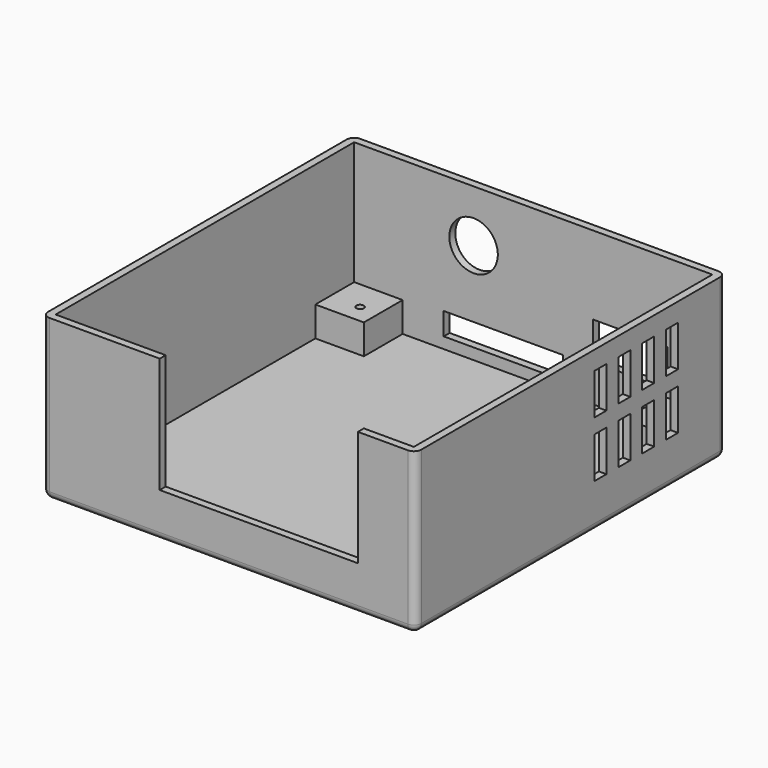
from build123d import *

# Parameters (mm, degrees)
SKETCH_W        = 50
SKETCH_H        = 52
PAD_DEPTH       = 21.5
SKETCH001_W     = 48
SKETCH001_H     = 50
POCKET_DEPTH    = 20.5
SKETCH002_W     = 6.5
SKETCH002_H     = 6.5
PAD001_DEPTH    = 4
SKETCH003_R     = 0.5
POCKET001_DEPTH = 3
SKETCH004_W     = 26.55
SKETCH004_H     = 15.5
POCKET002_DEPTH = 1
SKETCH005_W     = 10
SKETCH005_H     = 5
SKETCH005_W_2   = 16
SKETCH005_H_2   = 3
POCKET003_DEPTH = 1
SKETCH006_W     = 2
SKETCH006_H     = 5.5
POCKET004_DEPTH = 1
FILLET_R        = 1
SKETCH007_R     = 3.25
POCKET005_DEPTH = 1


with BuildPart() as part:
    # Sketch → Pad (new body)
    with BuildSketch(Plane.XY):
        Rectangle(SKETCH_W, SKETCH_H)
    extrude(amount=PAD_DEPTH)

    # Sketch001 (on Face6 of Pad) → Pocket (cut)
    with BuildSketch(Plane.XY.offset(21.5)):
        Rectangle(SKETCH001_W, SKETCH001_H)
    extrude(amount=-POCKET_DEPTH, mode=Mode.SUBTRACT)

    # Sketch002 (on Face11 of Pocket) → Pad001 (join)
    with BuildSketch(Plane.XY.offset(1)):
        with Locations((-20.75, 21.75)):
            Rectangle(SKETCH002_W, SKETCH002_H)
        with Locations((20.75, 21.75)):
            Rectangle(SKETCH002_W, SKETCH002_H)
        with Locations((-20.75, -21.75)):
            Rectangle(SKETCH002_W, SKETCH002_H)
        with Locations((20.75, -21.75)):
            Rectangle(SKETCH002_W, SKETCH002_H)
    extrude(amount=PAD001_DEPTH)

    # Sketch003 (on DatumPlane) → Pocket001 (cut)
    with BuildSketch(Plane.XY.offset(5)):
        with Locations((-20, 21)):
            Circle(SKETCH003_R)
        with Locations((20, 21)):
            Circle(SKETCH003_R)
        with Locations((-20, -21)):
            Circle(SKETCH003_R)
        with Locations((20, -21)):
            Circle(SKETCH003_R)
    extrude(amount=-POCKET001_DEPTH, mode=Mode.SUBTRACT)

    # Sketch004 (on Face6 of Pocket001) → Pocket002 (cut)
    with BuildSketch(Plane.XZ.offset(26)):
        with Locations((4.025, 13.75)):
            Rectangle(SKETCH004_W, SKETCH004_H)
    extrude(amount=-POCKET002_DEPTH, mode=Mode.SUBTRACT)

    # Sketch005 (on Face1 of Pocket002) → Pocket003 (cut)
    with BuildSketch(Plane(origin=(0, 26, 0), x_dir=(-1, 0, 0), z_dir=(0, 1, 0))):
        with Locations((-13, 8.5)):
            Rectangle(SKETCH005_W, SKETCH005_H)
        with Locations((4, 4)):
            Rectangle(SKETCH005_W_2, SKETCH005_H_2)
    extrude(amount=-POCKET003_DEPTH, mode=Mode.SUBTRACT)

    # Sketch006 → Pocket004 (cut)
    with BuildSketch(Plane.YZ.offset(25)):
        with Locations((17, 16.25)):
            Rectangle(SKETCH006_W, SKETCH006_H)
        with Locations((13, 16.25)):
            Rectangle(SKETCH006_W, SKETCH006_H)
        with Locations((9, 16.25)):
            Rectangle(SKETCH006_W, SKETCH006_H)
        with Locations((5, 16.25)):
            Rectangle(SKETCH006_W, SKETCH006_H)
        with Locations((5, 8.75)):
            Rectangle(SKETCH006_W, SKETCH006_H)
        with Locations((9, 8.75)):
            Rectangle(SKETCH006_W, SKETCH006_H)
        with Locations((13, 8.75)):
            Rectangle(SKETCH006_W, SKETCH006_H)
        with Locations((17, 8.75)):
            Rectangle(SKETCH006_W, SKETCH006_H)
    extrude(amount=-POCKET004_DEPTH, mode=Mode.SUBTRACT)

    # Fillet
    fillet_edges = [part.edges().sort_by_distance(p)[0] for p in [
        (-25, 0, 0),
        (0, -26, 0),
        (25, 0, 0),
        (0, 26, 0),
        (25, 26, 10.75),
        (25, -26, 10.75),
        (-25, -26, 10.75),
        (-25, 26, 10.75),
    ]]
    fillet(fillet_edges, radius=FILLET_R)

    # Sketch007 (on Face1 of Fillet) → Pocket005 (cut)
    with BuildSketch(Plane(origin=(0, 26, 0), x_dir=(-1, 0, 0), z_dir=(0, 1, 0))):
        with Locations((8, 14.5)):
            Circle(SKETCH007_R)
    extrude(amount=-POCKET005_DEPTH, mode=Mode.SUBTRACT)


solid = part.part
